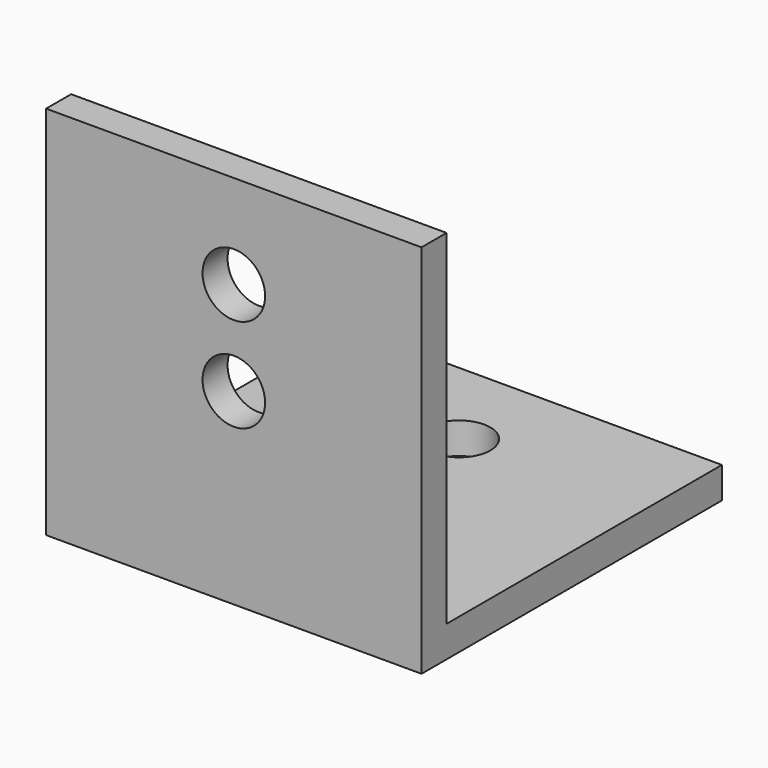
from build123d import *

# Parameters (mm, degrees)
F1_DEPTH = 76.2
F2_R     = 6.35
F3_DEPTH = 76.201
F4_R     = 6.35
F5_DEPTH = 76.201


with BuildPart() as f1:
    # F0 (on Right) → F1 (new body)
    with BuildSketch(Plane.YZ):
        Polygon((0, 76.2), (0, 0), (76.2, 0), (76.2, 6.35), (6.35, 6.35), (6.35, 76.2), align=None)
    extrude(amount=F1_DEPTH)

    # F2 (on Front) → F3 (cut, through all)
    with BuildSketch(Plane.XZ):
        with Locations((38.1, 57.15)):
            Circle(F2_R)
        with Locations((38.1, 38.1)):
            Circle(F2_R)
    extrude(amount=-F3_DEPTH, mode=Mode.SUBTRACT)

    # F4 (on Top) → F5 (cut, through all)
    with BuildSketch(Plane.XY):
        with Locations((38.1, 38.1)):
            Circle(F4_R)
        with Locations((38.1, 57.15)):
            Circle(F4_R)
    extrude(amount=F5_DEPTH, mode=Mode.SUBTRACT)


solid = f1.part
